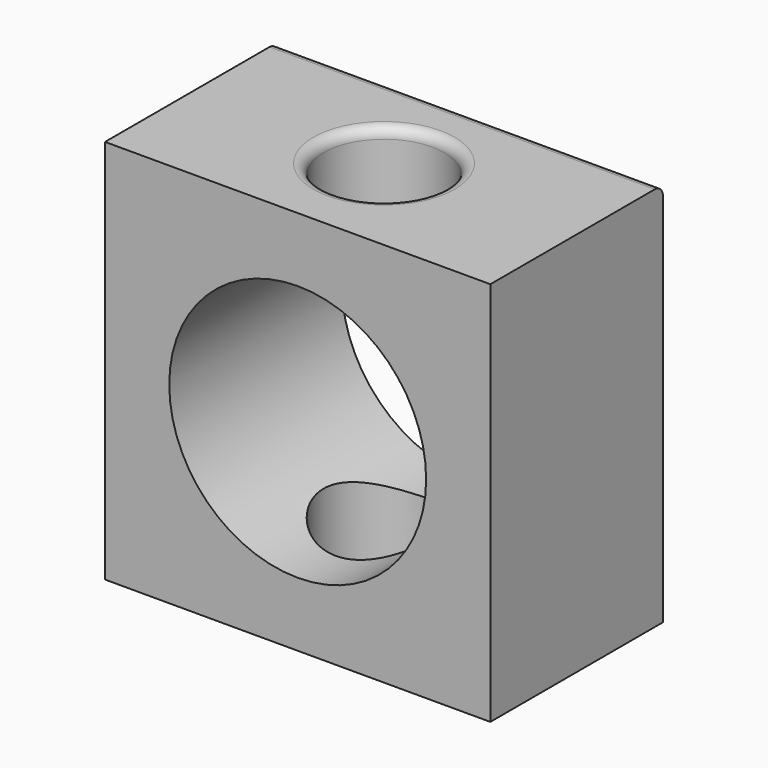
from build123d import *

# Parameters (mm, degrees)
F0_W     = 190.5
F0_H     = 190.5
F0_R     = 63.5
F1_DEPTH = 53.34
F2_R     = 29.847135
F3_DEPTH = 190.501
F4_R     = 5.08


with BuildPart() as f1:
    # F0 (on Front) → F1 (new body, symmetric)
    with BuildSketch(Plane.XZ):
        Rectangle(F0_W, F0_H)
        Circle(F0_R, mode=Mode.SUBTRACT)
    extrude(amount=F1_DEPTH, both=True)

    # F2 (on face) → F3 (cut, through all)
    with BuildSketch(Plane.XY.offset(95.25)):
        Circle(F2_R)
    extrude(amount=-F3_DEPTH, mode=Mode.SUBTRACT)

    # F4
    f4_edges = [f1.edges().sort_by_distance(p)[0] for p in [
        (-29.847135, 0, 95.25),
        (0, 53.34, 95.25),
    ]]
    fillet(f4_edges, radius=F4_R)


solid = f1.part
